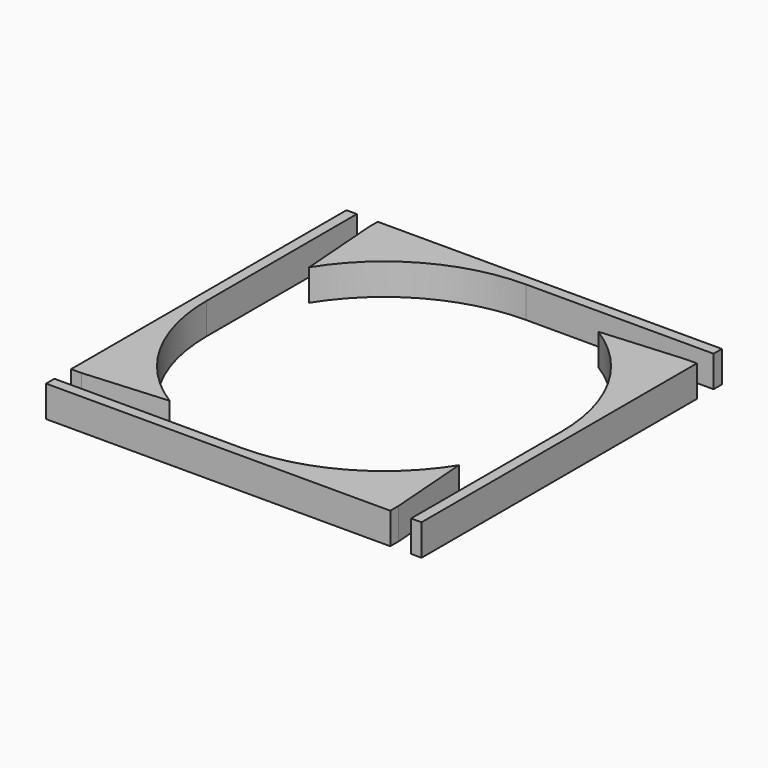
from build123d import *

# Parameters (mm, degrees)
F2_DEPTH = 30


with BuildPart() as f2:
    # F1 (on Top) → F2 (new body)
    with BuildSketch(Plane.XY):
        with BuildLine():
            ThreePointArc((-144, 90.354856), (-82.279021, 148.762101), (0, 170))
            Line((0, 170), (170, 170))
            Line((170, 170), (180, 170))
            Line((180, 170), (180, 180))
            Line((180, 180), (170, 180))
            Line((170, 180), (-150, 180))
            Line((-150, 180), (-150, 170))
            Line((-150, 170), (-144, 90.354856))
        make_face()
        with BuildLine():
            Line((0, -170), (-170, -170))
            Line((-170, -170), (-180, -170))
            Line((-180, -170), (-180, -180))
            Line((-180, -180), (-170, -180))
            Line((-170, -180), (150, -180))
            Line((150, -180), (150, -170))
            Line((150, -170), (144, -90.354856))
            ThreePointArc((144, -90.354856), (82.279021, -148.762101), (0, -170))
        make_face()
        with BuildLine():
            Line((-170, 0), (-170, 170))
            Line((-170, 170), (-170, 180))
            Line((-170, 180), (-180, 180))
            Line((-180, 180), (-180, 170))
            Line((-180, 170), (-180, -150))
            Line((-180, -150), (-170, -150))
            Line((-170, -150), (-90.354856, -144))
            ThreePointArc((-90.354856, -144), (-148.762101, -82.279021), (-170, 0))
        make_face()
        with BuildLine():
            ThreePointArc((90.354856, 144), (148.762101, 82.279021), (170, 0))
            Line((170, 0), (170, -170))
            Line((170, -170), (170, -180))
            Line((170, -180), (180, -180))
            Line((180, -180), (180, -170))
            Line((180, -170), (180, 150))
            Line((180, 150), (170, 150))
            Line((170, 150), (90.354856, 144))
        make_face()
    extrude(amount=F2_DEPTH)


solid = f2.part
